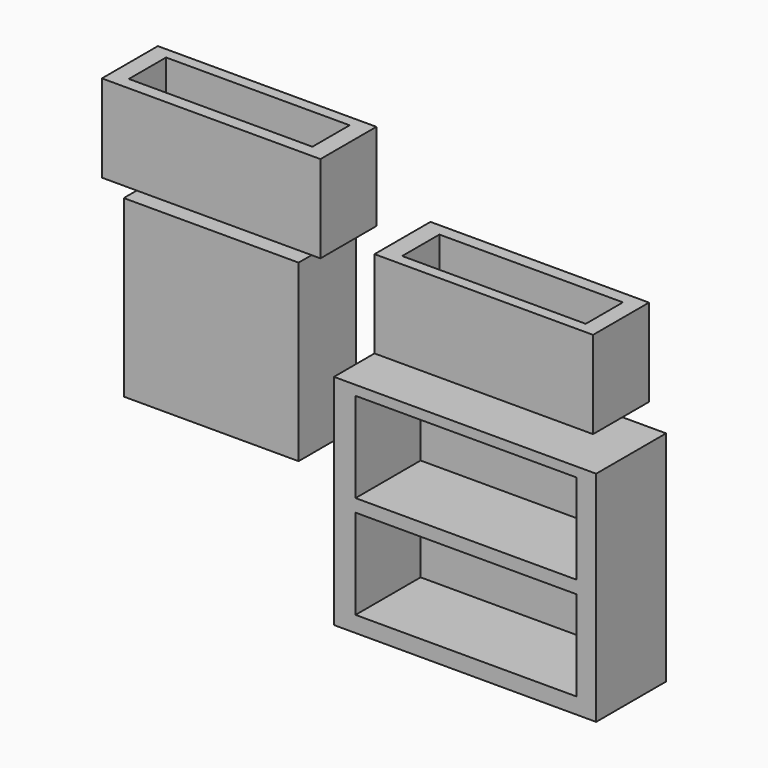
from build123d import *

# Parameters (mm, degrees)
F0_W      = 50.8
F0_H      = 50.8
F1_DEPTH  = 20.79838
F2_W      = 76.2
F2_H      = 63.5
F3_DEPTH  = 25.4
F4_W      = 64.262
F4_H      = 26.162
F5_DEPTH  = 23.62987
F6_W      = 63.5
F6_H      = 25.4
F7_DEPTH  = 20.32
F8_W      = 63.5
F8_H      = 25.4
F9_DEPTH  = 20.32
F10_R     = 2.921
F11_DEPTH = 3.71992
F12_W     = 53.34
F12_H     = 13.517677
F13_DEPTH = 22.25425
F14_W     = 53.34
F14_H     = 13.5128
F15_DEPTH = 22.23022


with BuildPart() as f1:
    # F0 (on Front) → F1 (new body)
    with BuildSketch(Plane.XZ):
        with Locations((-39.375696, -8.458808)):
            Rectangle(F0_W, F0_H)
    extrude(amount=F1_DEPTH)


with BuildPart() as f3:
    # F2 (on Front) → F3 (new body)
    with BuildSketch(Plane.XZ):
        with Locations((38.081209, -37.617004)):
            Rectangle(F2_W, F2_H)
    extrude(amount=F3_DEPTH)

    # F4 (on face) → F5 (cut)
    with BuildSketch(Plane.XZ.offset(25.4)):
        with Locations((38.390803, -21.75927)):
            Rectangle(F4_W, F4_H)
        with Locations((38.390803, -51.641623)):
            Rectangle(F4_W, F4_H)
    extrude(amount=-F5_DEPTH, mode=Mode.SUBTRACT)


with BuildPart() as f7:
    # F6 (on Front) → F7 (new body)
    with BuildSketch(Plane.XZ):
        with Locations((39.462394, 13.269082)):
            Rectangle(F6_W, F6_H)
    extrude(amount=F7_DEPTH)

    # F12 (on face) → F13 (cut)
    with BuildSketch(Plane.XY.offset(25.969082)):
        with Locations((39.857018, -10.358874)):
            Rectangle(F12_W, F12_H)
    extrude(amount=-F13_DEPTH, mode=Mode.SUBTRACT)


with BuildPart() as f9:
    # F8 (on Front) → F9 (new body)
    with BuildSketch(Plane.XZ):
        with Locations((-39.758361, 32.474239)):
            Rectangle(F8_W, F8_H)
    extrude(amount=F9_DEPTH)

    # F14 (on face) → F15 (cut)
    with BuildSketch(Plane.XY.offset(45.174239)):
        with Locations((-39.892271, -9.96269)):
            Rectangle(F14_W, F14_H)
    extrude(amount=-F15_DEPTH, mode=Mode.SUBTRACT)


with BuildPart() as f11:
    # F10 (on Front) → F11 (new body)
    with BuildSketch(Plane.XZ):
        with Locations((39.462394, 13.269082)):
            Circle(F10_R)
        with Locations((-39.758361, 32.474239)):
            Circle(F10_R)
    extrude(amount=-F11_DEPTH)


solid = Compound([f1.part, f3.part, f7.part, f9.part, f11.part])
